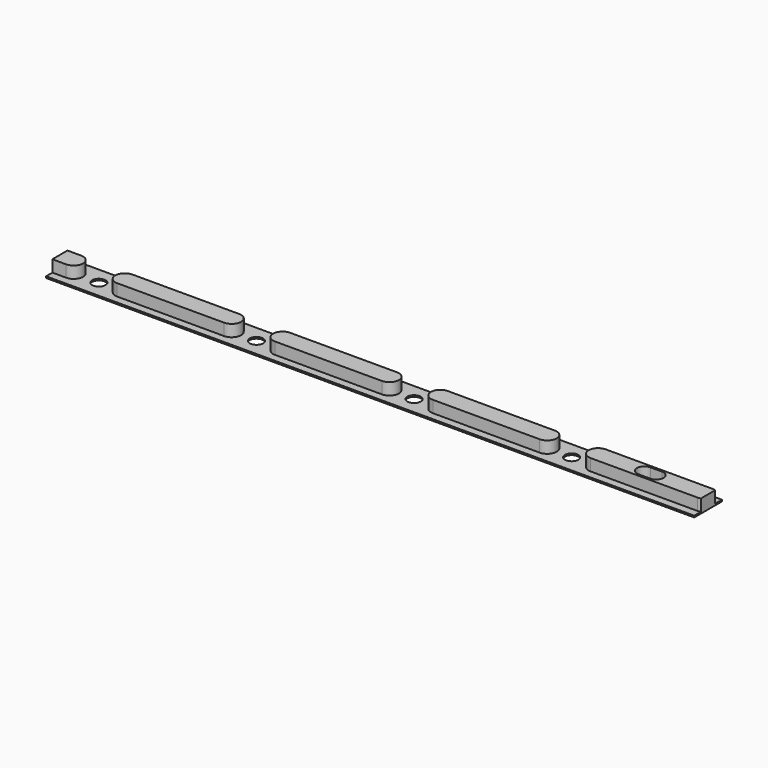
from build123d import *

# Parameters (mm, degrees)
SKETCH_W          = 20
SKETCH_H          = 9
PAD_DEPTH         = 0.5
PAD001_DEPTH      = 3
PAD001_FACE6_W    = 9
PAD001_FACE6_H    = 0.5
PAD002_DEPTH      = 160
PAD003_DEPTH      = 3
SKETCH003_R       = 1.7
POCKET_DEPTH      = 5
SKETCH004_W       = 9
SKETCH004_H       = 3.5
POCKET001_DEPTH   = 10
SKETCH005_W       = 9
SKETCH005_H       = 3.5
POCKET002_DEPTH   = 5
POCKET002_FACE2_W = 9
POCKET002_FACE2_H = 165
POCKET002_FACE2_R = 1.7
POCKET003_DEPTH   = 0.1
POCKET004_DEPTH   = 0.1
SKETCH006_R       = 1.9
POCKET005_DEPTH   = 5
POCKET005_FACE6_W = 164.9
POCKET005_FACE6_H = 0.4
POCKET006_DEPTH   = 0.1
POCKET006_FACE1_W = 164.9
POCKET006_FACE1_H = 0.4
POCKET007_DEPTH   = 0.1
POCKET008_DEPTH   = 5


with BuildPart() as part:
    # Sketch → Pad (new body)
    with BuildSketch(Plane.XY):
        Rectangle(SKETCH_W, SKETCH_H)
    extrude(amount=PAD_DEPTH)

    # Sketch001 (on Face6 of Pad) → Pad001 (join)
    with BuildSketch(Plane.XY.offset(0.5)):
        with BuildLine():
            ThreePointArc((-3.6, 2.4), (-6, 0), (-3.6, -2.4))
            Line((-3.6, -2.4), (3.6, -2.4))
            ThreePointArc((3.6, -2.4), (6, 0), (3.6, 2.4))
            Line((-3.6, 2.4), (3.6, 2.4))
        make_face()
    extrude(amount=PAD001_DEPTH)

    # Pad001 Face6 → Pad002 (add)
    with BuildSketch(Plane(origin=(10, 0, 0.25), x_dir=(0, -1, 0), z_dir=(1, 0, 0))):
        Rectangle(PAD001_FACE6_W, PAD001_FACE6_H)
    extrude(amount=PAD002_DEPTH)

    # Sketch002 (on Face6 of Pad002) → Pad003 (join)
    with BuildSketch(Plane.XY.offset(0.5)):
        with BuildLine():
            ThreePointArc((16.6, 2.4), (14.2, 0), (16.6, -2.4))
            Line((16.6, -2.4), (43.8, -2.4))
            ThreePointArc((43.8, -2.4), (46.2, 0), (43.8, 2.4))
            Line((16.6, 2.4), (43.8, 2.4))
        make_face()
        with BuildLine():
            ThreePointArc((56.74, 2.4), (54.34, 0), (56.74, -2.4))
            Line((56.74, -2.4), (83.94, -2.4))
            ThreePointArc((83.94, -2.4), (86.34, 0), (83.94, 2.4))
            Line((56.74, 2.4), (83.94, 2.4))
        make_face()
        with BuildLine():
            ThreePointArc((96.88, 2.4), (94.48, 0), (96.88, -2.4))
            Line((96.88, -2.4), (124.08, -2.4))
            ThreePointArc((124.08, -2.4), (126.48, 0), (124.08, 2.4))
            Line((96.88, 2.4), (124.08, 2.4))
        make_face()
        with BuildLine():
            ThreePointArc((137.02, 2.4), (134.62, 0), (137.02, -2.4))
            Line((137.02, -2.4), (164.22, -2.4))
            ThreePointArc((164.22, -2.4), (166.62, 0), (164.22, 2.4))
            Line((137.02, 2.4), (164.22, 2.4))
        make_face()
    extrude(amount=PAD003_DEPTH)

    # Sketch003 (on Face5 of Pad003) → Pocket (cut)
    with BuildSketch(Plane.XY.offset(0.5)):
        with Locations((10, 0)):
            Circle(SKETCH003_R)
        with Locations((50.1, 0)):
            Circle(SKETCH003_R)
        with Locations((90.2, 0)):
            Circle(SKETCH003_R)
        with Locations((130.3, 0)):
            Circle(SKETCH003_R)
    extrude(amount=-POCKET_DEPTH, mode=Mode.SUBTRACT)

    # Sketch004 (on Face1 of Pocket) → Pocket001 (cut)
    with BuildSketch(Plane(origin=(-10, 0, 0), x_dir=(0, -1, 0), z_dir=(-1, 0, 0))):
        with Locations((0, 1.75)):
            Rectangle(SKETCH004_W, SKETCH004_H)
    extrude(amount=-POCKET001_DEPTH, mode=Mode.SUBTRACT)

    # Sketch005 (on Face3 of Pocket001) → Pocket002 (cut)
    with BuildSketch(Plane.YZ.offset(170)):
        with Locations((0, 1.75)):
            Rectangle(SKETCH005_W, SKETCH005_H)
    extrude(amount=-POCKET002_DEPTH, mode=Mode.SUBTRACT)

    # Pocket002 Face2 → Pocket003 (cut)
    with BuildSketch(Plane(origin=(82.8096, 0, 0), x_dir=(0, -1, 0), z_dir=(0, 0, -1))):
        with Locations((0, 0.3096)):
            Rectangle(POCKET002_FACE2_W, POCKET002_FACE2_H)
        with Locations((0, -47.4904)):
            Circle(POCKET002_FACE2_R, mode=Mode.SUBTRACT)
        with Locations((0, -7.3904)):
            Circle(POCKET002_FACE2_R, mode=Mode.SUBTRACT)
        with Locations((0, 32.7096)):
            Circle(POCKET002_FACE2_R, mode=Mode.SUBTRACT)
        with Locations((0, 72.8096)):
            Circle(POCKET002_FACE2_R, mode=Mode.SUBTRACT)
    extrude(amount=-POCKET003_DEPTH, mode=Mode.SUBTRACT)

    # Pocket003 Face5 → Pocket004 (cut)
    with BuildSketch(Plane(origin=(0, 0, 1.66), x_dir=(0, 1, 0), z_dir=(-1, 0, 0))):
        Polygon((4.5, 1.56), (-4.5, 1.56), (-4.5, 1.16), (-2.4, 1.16), (-2.4, -1.84), (2.4, -1.84), (2.4, 1.16), (4.5, 1.16), align=None)
    extrude(amount=-POCKET004_DEPTH, mode=Mode.SUBTRACT)

    # Sketch006 (on Face12 of Pocket004) → Pocket005 (cut)
    with BuildSketch(Plane.XY.offset(3.5)):
        with Locations((150.3, 0)):
            Circle(SKETCH006_R)
    extrude(amount=-POCKET005_DEPTH, mode=Mode.SUBTRACT)

    # Pocket005 Face6 → Pocket006 (cut)
    with BuildSketch(Plane(origin=(82.55, -4.5, 0.3), x_dir=(-1, 0, 0), z_dir=(0, -1, 0))):
        Rectangle(POCKET005_FACE6_W, POCKET005_FACE6_H)
    extrude(amount=-POCKET006_DEPTH, mode=Mode.SUBTRACT)

    # Pocket006 Face1 → Pocket007 (cut)
    with BuildSketch(Plane(origin=(82.55, 4.5, 0.3), x_dir=(1, 0, 0), z_dir=(0, 1, 0))):
        Rectangle(POCKET006_FACE1_W, POCKET006_FACE1_H)
    extrude(amount=-POCKET007_DEPTH, mode=Mode.SUBTRACT)

    # Sketch007 (on Face16 of Pocket007) → Pocket008 (cut)
    with BuildSketch(Plane.XY.offset(3.5)):
        with BuildLine():
            ThreePointArc((148.8, 1.9), (146.9, 0), (148.8, -1.9))
            Line((148.8, -1.9), (151.8, -1.9))
            ThreePointArc((151.8, -1.9), (153.7, 0), (151.8, 1.9))
            Line((148.8, 1.9), (151.8, 1.9))
        make_face()
    extrude(amount=-POCKET008_DEPTH, mode=Mode.SUBTRACT)


solid = part.part
